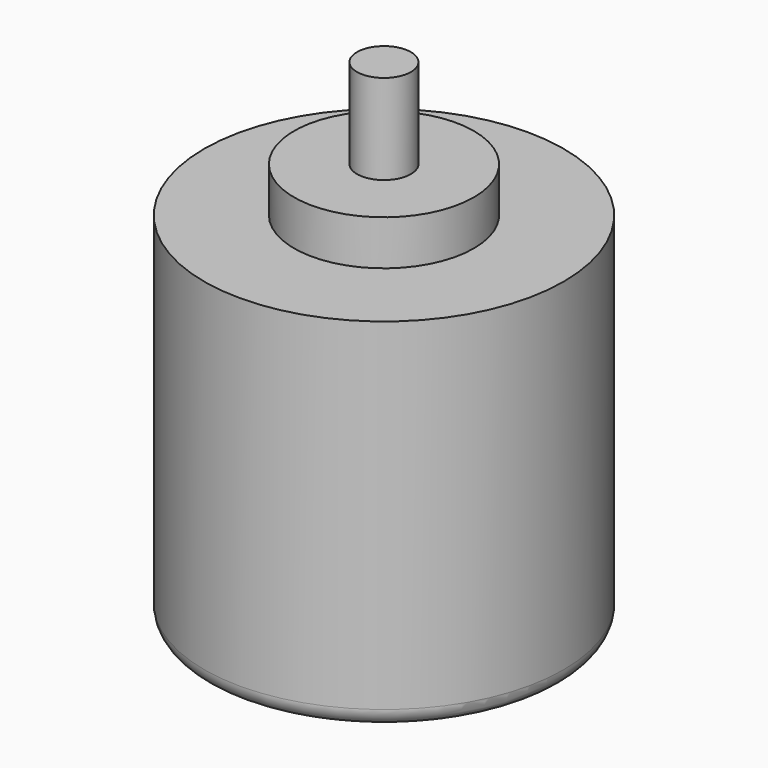
from build123d import *

# Parameters (mm, degrees)
FILLET_R = 2


with BuildPart() as part:
    # Sketch → Revolution (revolve)
    with BuildSketch(Plane.XZ):
        Polygon((0, 0), (20, 0), (20, 40), (10, 40), (10, 45), (3, 45), (3, 55), (0, 55), align=None)
    revolve(axis=Axis((0, 0, 0), (0, 0, 1)))

    # Fillet
    fillet_edges = [part.edges().sort_by_distance(p)[0] for p in [
        (-20, 0, 0),
    ]]
    fillet(fillet_edges, radius=FILLET_R)


solid = part.part
